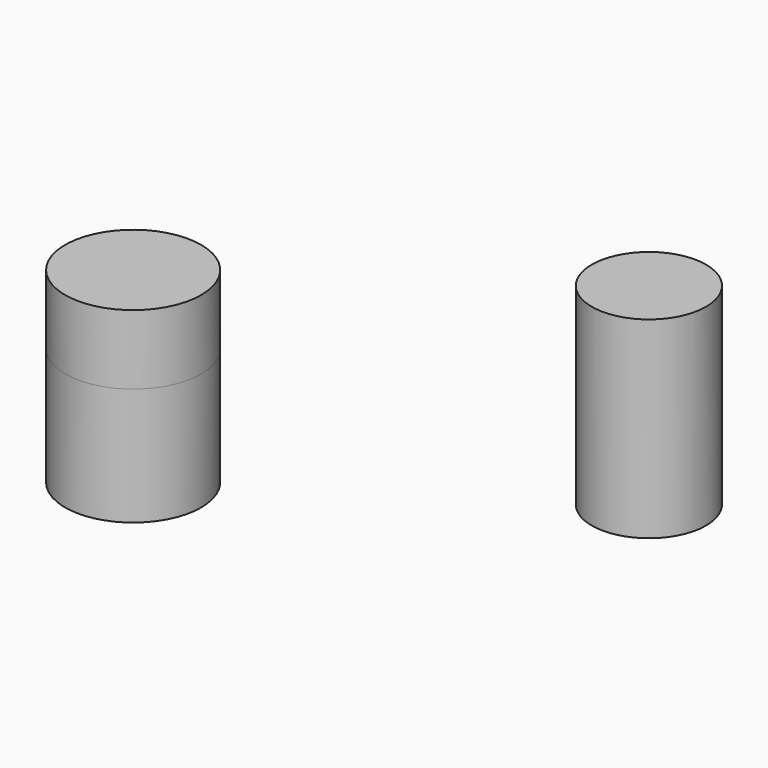
from build123d import *

# Parameters (mm, degrees)
F0_R      = 20.862419
F1_DEPTH  = 70.358
F2_R      = 24.833887
F3_DEPTH  = 42.926
F3_FACE_R = 24.833887
F4_DEPTH  = 25.4


with BuildPart() as f1:
    # F0 (on Top) → F1 (new body)
    with BuildSketch(Plane.XY):
        with Locations((104.310215, -43.013666)):
            Circle(F0_R)
    extrude(amount=F1_DEPTH)


with BuildPart() as f3:
    # F2 (on Top) → F3 (new body)
    with BuildSketch(Plane.XY):
        with Locations((-70.583418, -59.86936)):
            Circle(F2_R)
    extrude(amount=-F3_DEPTH)

    # F3_face (on face) → F4 (join)
    with BuildSketch(Plane(origin=(-70.583418, -59.86936, 0), x_dir=(1, 0, 0), z_dir=(0, 0, 1))):
        Circle(F3_FACE_R)
    extrude(amount=F4_DEPTH)


solid = Compound([f1.part, f3.part])
